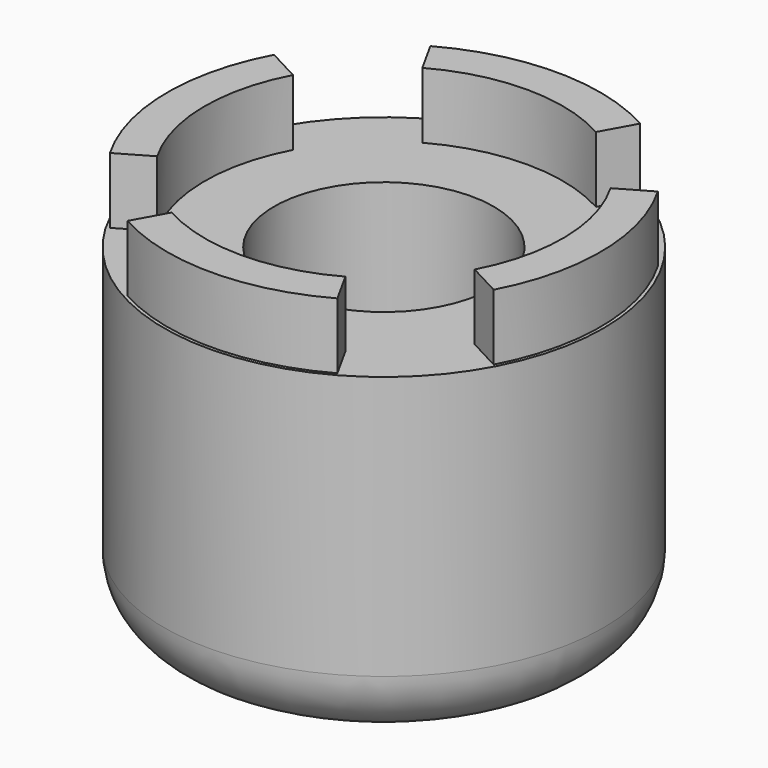
from build123d import *

# Parameters (mm, degrees)
SKETCH_R     = 10
SKETCH_R_2   = 5
PAD_DEPTH    = 15
PAD001_DEPTH = 3
FILLET_R     = 3


with BuildPart() as part:
    # Sketch → Pad (new body)
    with BuildSketch(Plane.XY):
        Circle(SKETCH_R)
        Circle(SKETCH_R_2, mode=Mode.SUBTRACT)
    extrude(amount=PAD_DEPTH)

    # Sketch001 (on Face4 of Pad) → Pad001 (join)
    with BuildSketch(Plane.XY.offset(15)):
        with BuildLine():
            ThreePointArc((-8.697034, 4.624295), (-9.8485, -0.171906), (-8.53035, -4.925))
            Line((-7.058107, -4.075), (-8.53035, -4.925))
            ThreePointArc((-7.196023, 3.826193), (-8.148759, -0.142237), (-7.058107, -4.075))
            Line((-7.196023, 3.826193), (-8.697034, 4.624295))
        make_face()
        with BuildLine():
            Line((-3.951198, 7.128151), (-4.775375, 8.615004))
            ThreePointArc((4.775375, 8.615004), (0, 9.85), (-4.775375, 8.615004))
            Line((3.951198, 7.128151), (4.775375, 8.615004))
            ThreePointArc((3.951198, 7.128151), (0, 8.15), (-3.951198, 7.128151))
        make_face()
        with BuildLine():
            Line((3.951198, -7.128151), (4.775375, -8.615004))
            ThreePointArc((-4.775375, -8.615004), (0, -9.85), (4.775375, -8.615004))
            Line((-3.951198, -7.128151), (-4.775375, -8.615004))
            ThreePointArc((-3.951198, -7.128151), (0, -8.15), (3.951198, -7.128151))
        make_face()
        with BuildLine():
            Line((7.058107, 4.075), (8.53035, 4.925))
            ThreePointArc((8.697034, -4.624295), (9.8485, 0.171906), (8.53035, 4.925))
            Line((7.196023, -3.826193), (8.697034, -4.624295))
            ThreePointArc((7.196023, -3.826193), (8.148759, 0.142237), (7.058107, 4.075))
        make_face()
    extrude(amount=PAD001_DEPTH)

    # Fillet
    fillet_edges = [part.edges().sort_by_distance(p)[0] for p in [
        (-10, 0, 0),
    ]]
    fillet(fillet_edges, radius=FILLET_R)


solid = part.part
